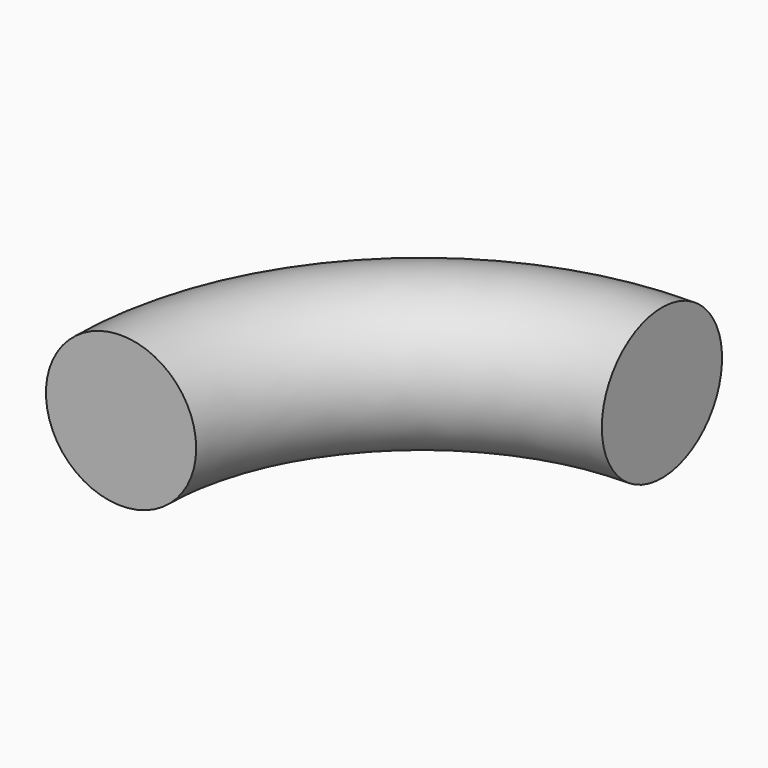
from build123d import *

# Parameters (mm, degrees)
F0_R = 19.05


with BuildPart() as f2:
    # F2: sweep along a path in F1
    with BuildLine(Plane.XY) as f2_path:
        ThreePointArc((76.2, 76.2), (22.318463, 53.881537), (0, 0))
    # F0 (on Front) → F2 (sweep)
    with BuildSketch(Plane.XZ):
        Circle(F0_R)
    sweep(path=f2_path.line)


solid = f2.part
